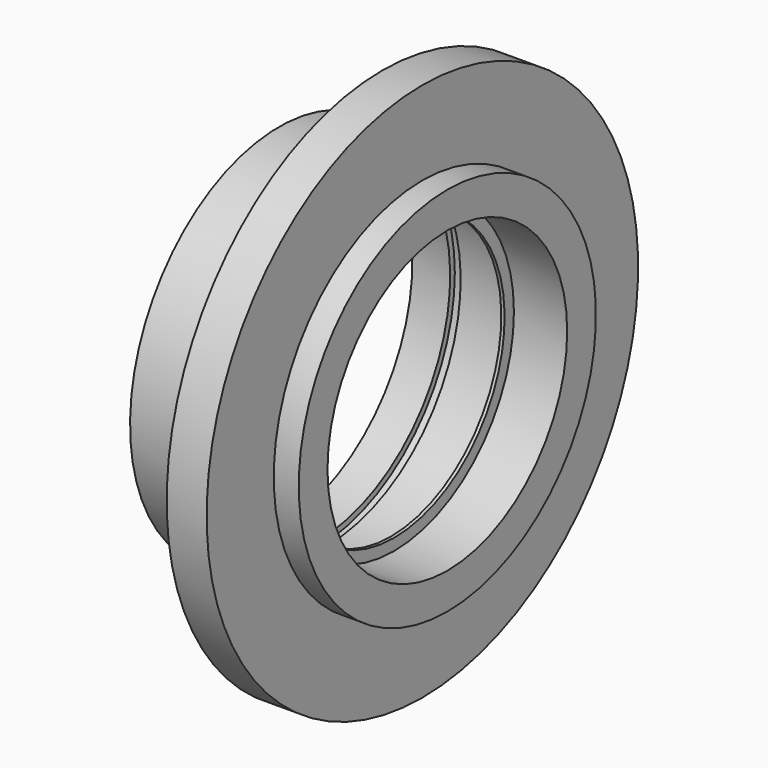
from build123d import *

# Parameters (mm, degrees)
F3_DEPTH = 15


with BuildPart() as f1:
    # F0 (on Front) → F1 (revolve)
    with BuildSketch(Plane.XZ):
        Polygon((0, 45.5441143698), (0, 41.5), (0.9912901085, 41.5), (0.9912901085, 45), (16.9912901085, 45), (16.9912901085, 55.8), (9.4912901085, 55.8), (9.4912901085, 81), (-2.5087098915, 81), (-2.5087098915, 56.45), (-10.5087098915, 56.45), (-10.5087098915, 56), (-33.5087098915, 56), (-33.5087098915, 50), (-22.1587098915, 50), (-22.1587098915, 51.75), (-19.0087098915, 51.75), (-19.0087098915, 50), (5.9912901085, 50), (5.9912901085, 45.5441143698), align=None)
        Polygon((5.9912901085, -50), (-19.0087098915, -50), (-19.0087098915, -51.75), (-22.1587098915, -51.75), (-22.1587098915, -50), (-33.5087098915, -50), (-33.5087098915, -56), (-10.5087098915, -56), (-10.5087098915, -56.45), (-2.5087098915, -56.45), (-2.5087098915, -81), (9.4912901085, -81), (9.4912901085, -55.8), (16.9912901085, -55.8), (16.9912901085, -45), (0.9912901085, -45), (0.9912901085, -41.5), (0, -41.5), (0, -45.5441143698), (5.9912901085, -45.5441143698), align=None)
    revolve(axis=Axis((8.3674173802, 0, 0), (1, 0, 0)))

    # F2 (on face) → F3 (join)
    with BuildSketch(Plane.YZ.offset(9.4912901085)):
        with BuildLine():
            ThreePointArc((4.29785016, 67.8640441176), (0, 68), (-4.29785016, 67.8640441176))
            ThreePointArc((-4.29785016, 67.8640441176), (0, 63.7), (4.29785016, 67.8640441176))
        make_face()
        with BuildLine():
            ThreePointArc((4.29785016, 67.8640441176), (4.2994625064, 67.9320135606), (4.3, 68))
            ThreePointArc((4.3, 68), (-0.0679864394, 72.2994625064), (-4.29785016, 67.8640441176))
            ThreePointArc((-4.29785016, 67.8640441176), (0, 68), (4.29785016, 67.8640441176))
        make_face()
    extrude(amount=-F3_DEPTH)


solid = f1.part
